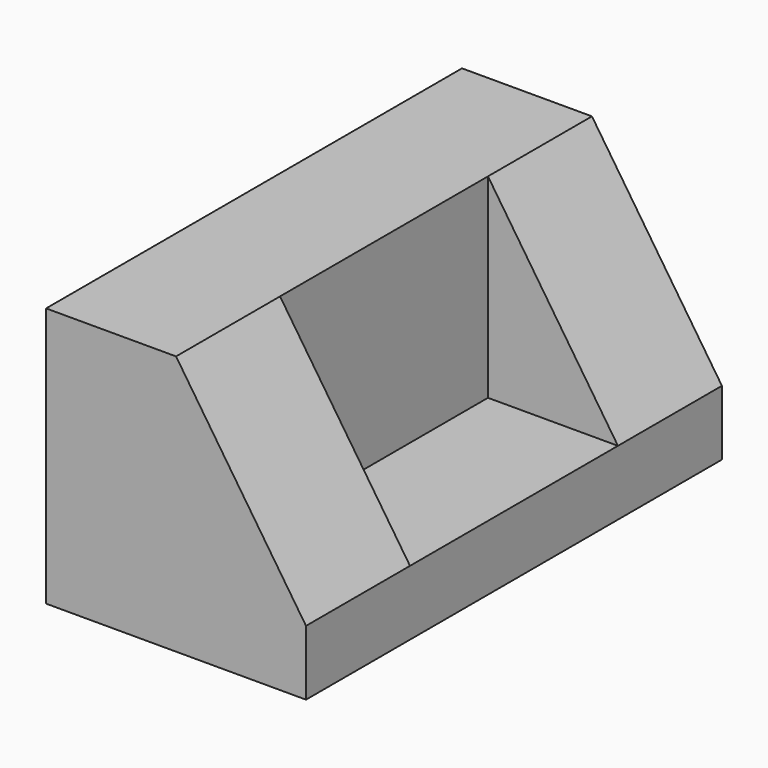
from build123d import *

# Parameters (mm, degrees)
F0_W     = 101.6
F0_H     = 203.2
F1_DEPTH = 101.6
F2_W     = 50.8
F2_H     = 203.2
F3_DEPTH = 76.2
F5_DEPTH = 50.8
F7_DEPTH = 50.8


with BuildPart() as f1:
    # F0 (on Top) → F1 (new body)
    with BuildSketch(Plane.XY):
        with Locations((-50.8, -101.6)):
            Rectangle(F0_W, F0_H)
    extrude(amount=F1_DEPTH)

    # F2 (on face) → F3 (cut)
    with BuildSketch(Plane.XY.offset(101.6)):
        with Locations((-25.4, -101.6)):
            Rectangle(F2_W, F2_H)
    extrude(amount=-F3_DEPTH, mode=Mode.SUBTRACT)

    # F4 (on face) → F5 (join)
    with BuildSketch(Plane(origin=(0, 0, 0), x_dir=(-1, 0, 0), z_dir=(0, 1, 0))):
        Polygon((50.8, 25.4), (50.8, 101.6), (0, 25.4), align=None)
    extrude(amount=-F5_DEPTH)

    # F6 (on face) → F7 (join)
    with BuildSketch(Plane.XZ.offset(203.2)):
        Polygon((0, 25.4), (-50.8, 101.6), (-50.8, 25.4), align=None)
    extrude(amount=-F7_DEPTH)


solid = f1.part
